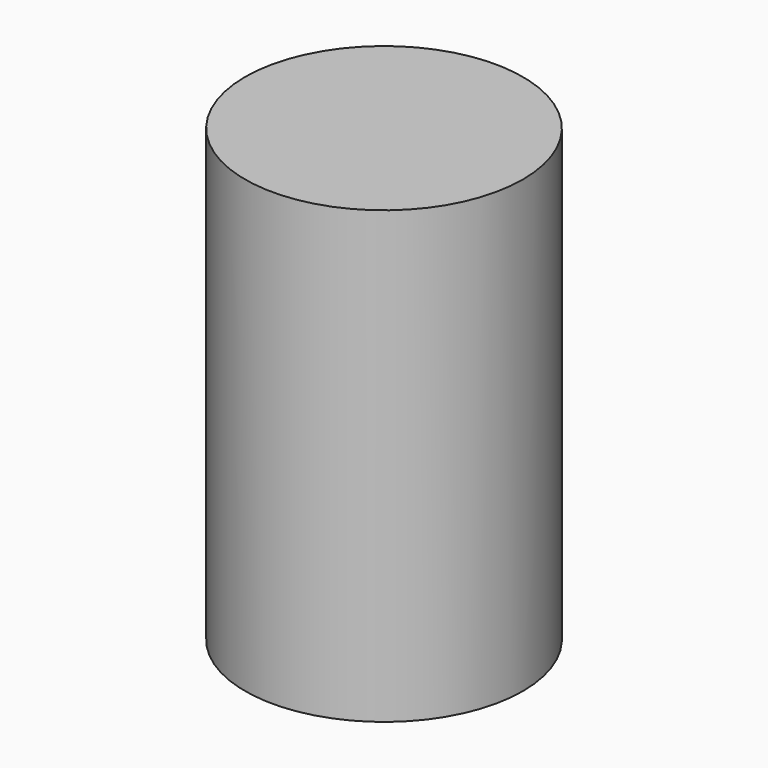
from build123d import *

# Parameters (mm, degrees)
F0_R     = 40.934134
F0_R_2   = 33.487958
F0_R_3   = 22.192099
F0_R_4   = 5.78497
F1_DEPTH = 132.75
F2_DEPTH = 25


with BuildPart() as f1:
    # F0 (on Top) → F1 (new body)
    with BuildSketch(Plane.XY):
        Circle(F0_R)
        Circle(F0_R_2, mode=Mode.SUBTRACT)
        Circle(F0_R_2)
        Circle(F0_R_3, mode=Mode.SUBTRACT)
        Circle(F0_R_3)
        Circle(F0_R_4, mode=Mode.SUBTRACT)
        Circle(F0_R_4)
    extrude(amount=F1_DEPTH)

    # F0 (on Top) → F2 (join)
    with BuildSketch(Plane.XY):
        Circle(F0_R_4)
    extrude(amount=F2_DEPTH)


solid = f1.part
